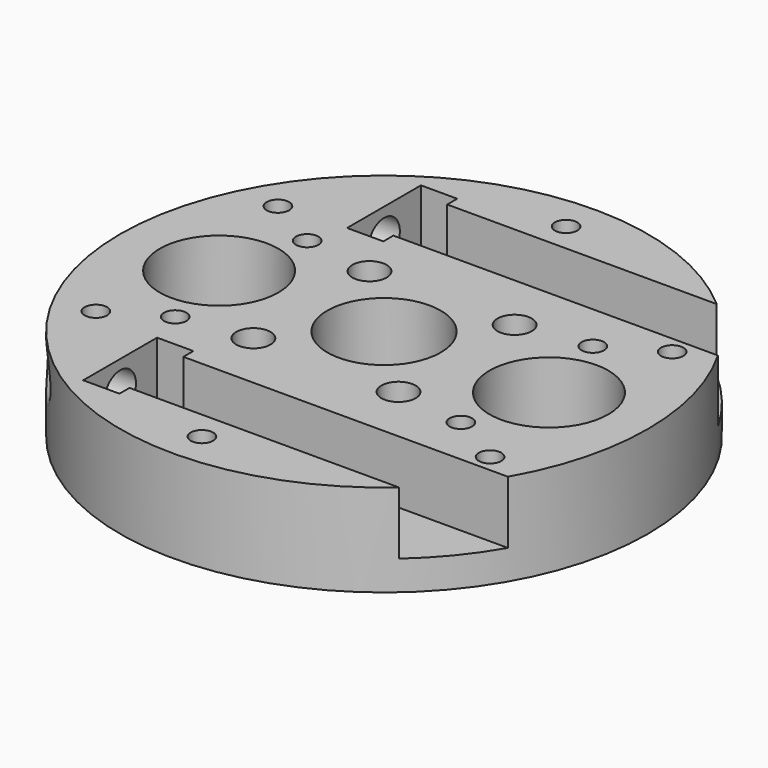
from build123d import *

# Parameters (mm, degrees)
SKETCH020_R           = 40
SKETCH020_R_2         = 7
SKETCH020_R_3         = 1.7
SKETCH020_R_4         = 9
PAD_DEPTH             = 14
SKETCH_W              = 60
SKETCH_H              = 10.2
POCKET_DEPTH          = 9.5
SKETCH021_R           = 1.7
POCKET001_DEPTH       = 242.001
POLARPATTERN_COUNT    = 6
SKETCH022_R           = 1.7
POCKET002_DEPTH       = 242.001
POLARPATTERN001_COUNT = 6
SKETCH023_R           = 8.6
POCKET003_DEPTH       = 12.5
SKETCH024_R           = 3
POCKET004_DEPTH       = 20.001
SKETCH025_R           = 2.6
POCKET005_DEPTH       = 5
FILLET_R              = 1
FILLET001_R           = 1
CHAMFER_SIZE          = 1.5
CHAMFER001_SIZE       = 1.5
CHAMFER002_SIZE       = 1.5
CHAMFER003_SIZE       = 1.5
CHAMFER004_SIZE       = 1.5
CHAMFER005_SIZE       = 1.5
CHAMFER006_SIZE       = 1.5
CHAMFER007_SIZE       = 1.5
CHAMFER008_SIZE       = 1.5
CHAMFER009_SIZE       = 1.5
CHAMFER010_SIZE       = 1.5
CHAMFER011_SIZE       = 1.5
SKETCH026_W           = 5.5
SKETCH026_H           = 14
POCKET006_DEPTH       = 11.5


with BuildPart() as part:
    # Sketch020 → Pad (new body)
    with BuildSketch(Plane(origin=(0, 0, 0), x_dir=(1, 0, 0), z_dir=(0, 0, -1))):
        Circle(SKETCH020_R)
        Circle(SKETCH020_R_2, mode=Mode.SUBTRACT)
        with Locations((-11, 11)):
            Circle(SKETCH020_R_3, mode=Mode.SUBTRACT)
        with Locations((11, 11)):
            Circle(SKETCH020_R_3, mode=Mode.SUBTRACT)
        with Locations((11, -11)):
            Circle(SKETCH020_R_3, mode=Mode.SUBTRACT)
        with Locations((-11, -11)):
            Circle(SKETCH020_R_3, mode=Mode.SUBTRACT)
        with Locations((-25, 0)):
            Circle(SKETCH020_R_4, mode=Mode.SUBTRACT)
        with Locations((25, 0)):
            Circle(SKETCH020_R_4, mode=Mode.SUBTRACT)
    extrude(amount=PAD_DEPTH)

    # Sketch → Pocket (cut)
    with BuildSketch(Plane.XY):
        with Locations((10, 25)):
            Rectangle(SKETCH_W, SKETCH_H)
        with Locations((10, -25)):
            Rectangle(SKETCH_W, SKETCH_H)
    extrude(amount=-POCKET_DEPTH, mode=Mode.SUBTRACT)

    # Sketch021 → Pocket001 (cut, through all)
    with BuildSketch(Plane(origin=(0, 0, -14), x_dir=(1, 0, 0), z_dir=(0, 0, -1))):
        with Locations((21.650635, 12.5)):
            Circle(SKETCH021_R)
    pocket001 = extrude(amount=-POCKET001_DEPTH, mode=Mode.SUBTRACT)

    # PolarPattern: Pocket001 ×6 about axis
    polarpattern_axis = Axis((0, 0, -14), (0, 0, -1))
    for i in range(1, POLARPATTERN_COUNT):
        add(pocket001.rotate(polarpattern_axis, i * 360 / POLARPATTERN_COUNT), mode=Mode.SUBTRACT)

    # Sketch022 → Pocket002 (cut, through all)
    with BuildSketch(Plane(origin=(0, 0, -14), x_dir=(1, 0, 0), z_dir=(0, 0, -1))):
        with Locations((29.877876, 17.25)):
            Circle(SKETCH022_R)
    pocket002 = extrude(amount=-POCKET002_DEPTH, mode=Mode.SUBTRACT)

    # PolarPattern001: Pocket002 ×6 about axis
    polarpattern001_axis = Axis((0, 0, -14), (0, 0, -1))
    for i in range(1, POLARPATTERN001_COUNT):
        add(pocket002.rotate(polarpattern001_axis, i * 360 / POLARPATTERN001_COUNT), mode=Mode.SUBTRACT)

    # Sketch023 → Pocket003 (cut)
    with BuildSketch(Plane.XY):
        Circle(SKETCH023_R)
    extrude(amount=-POCKET003_DEPTH, mode=Mode.SUBTRACT)

    # Sketch024 → Pocket004 (cut, through all)
    with BuildSketch(Plane(origin=(-20, 0, 0), x_dir=(0, -1, 0), z_dir=(1, 0, 0))):
        with Locations((-25, 4.5)):
            Circle(SKETCH024_R)
        with Locations((25, 4.5)):
            Circle(SKETCH024_R)
    extrude(amount=-POCKET004_DEPTH, mode=Mode.SUBTRACT)

    # Sketch025 → Pocket005 (cut)
    with BuildSketch(Plane.XY):
        with Locations((-11, 11)):
            Circle(SKETCH025_R)
        with Locations((11, 11)):
            Circle(SKETCH025_R)
        with Locations((11, -11)):
            Circle(SKETCH025_R)
        with Locations((-11, -11)):
            Circle(SKETCH025_R)
    extrude(amount=-POCKET005_DEPTH, mode=Mode.SUBTRACT)

    # Fillet
    fillet_edges = [part.edges().sort_by_distance(p)[0] for p in [
        (-31.156443, 25.085375, -7.498785),
    ]]
    fillet(fillet_edges, radius=FILLET_R)

    # Fillet001
    fillet001_edges = [part.edges().sort_by_distance(p)[0] for p in [
        (-31.156443, -25.085375, -7.498785),
    ]]
    fillet(fillet001_edges, radius=FILLET001_R)

    # Chamfer
    chamfer_edges = [part.edges().sort_by_distance(p)[0] for p in [
        (-20.800635, -11.027757, -14),
    ]]
    chamfer(chamfer_edges, length=CHAMFER_SIZE)

    # Chamfer001
    chamfer001_edges = [part.edges().sort_by_distance(p)[0] for p in [
        (-19.950635, 12.5, -14),
    ]]
    chamfer(chamfer001_edges, length=CHAMFER001_SIZE)

    # Chamfer002
    chamfer002_edges = [part.edges().sort_by_distance(p)[0] for p in [
        (20.800635, 11.027757, -14),
    ]]
    chamfer(chamfer002_edges, length=CHAMFER002_SIZE)

    # Chamfer003
    chamfer003_edges = [part.edges().sort_by_distance(p)[0] for p in [
        (19.950635, -12.5, -14),
    ]]
    chamfer(chamfer003_edges, length=CHAMFER003_SIZE)

    # Chamfer004
    chamfer004_edges = [part.edges().sort_by_distance(p)[0] for p in [
        (-0.85, -23.527757, -14),
    ]]
    chamfer(chamfer004_edges, length=CHAMFER004_SIZE)

    # Chamfer005
    chamfer005_edges = [part.edges().sort_by_distance(p)[0] for p in [
        (0.85, 23.527757, -14),
    ]]
    chamfer(chamfer005_edges, length=CHAMFER005_SIZE)

    # Chamfer006
    chamfer006_edges = [part.edges().sort_by_distance(p)[0] for p in [
        (0.85, 33.027757, -14),
    ]]
    chamfer(chamfer006_edges, length=CHAMFER006_SIZE)

    # Chamfer007
    chamfer007_edges = [part.edges().sort_by_distance(p)[0] for p in [
        (-28.177876, 17.25, -14),
    ]]
    chamfer(chamfer007_edges, length=CHAMFER007_SIZE)

    # Chamfer008
    chamfer008_edges = [part.edges().sort_by_distance(p)[0] for p in [
        (-29.027876, -15.777757, -14),
    ]]
    chamfer(chamfer008_edges, length=CHAMFER008_SIZE)

    # Chamfer009
    chamfer009_edges = [part.edges().sort_by_distance(p)[0] for p in [
        (-0.85, -33.027757, -14),
    ]]
    chamfer(chamfer009_edges, length=CHAMFER009_SIZE)

    # Chamfer010
    chamfer010_edges = [part.edges().sort_by_distance(p)[0] for p in [
        (28.177876, -17.25, -14),
    ]]
    chamfer(chamfer010_edges, length=CHAMFER010_SIZE)

    # Chamfer011
    chamfer011_edges = [part.edges().sort_by_distance(p)[0] for p in [
        (29.027876, 15.777757, -14),
    ]]
    chamfer(chamfer011_edges, length=CHAMFER011_SIZE)

    # Sketch026 → Pocket006 (cut)
    with BuildSketch(Plane.XY):
        with Locations((-17.25, 25)):
            Rectangle(SKETCH026_W, SKETCH026_H)
        with Locations((-17.25, -25)):
            Rectangle(SKETCH026_W, SKETCH026_H)
    extrude(amount=-POCKET006_DEPTH, mode=Mode.SUBTRACT)


solid = part.part
